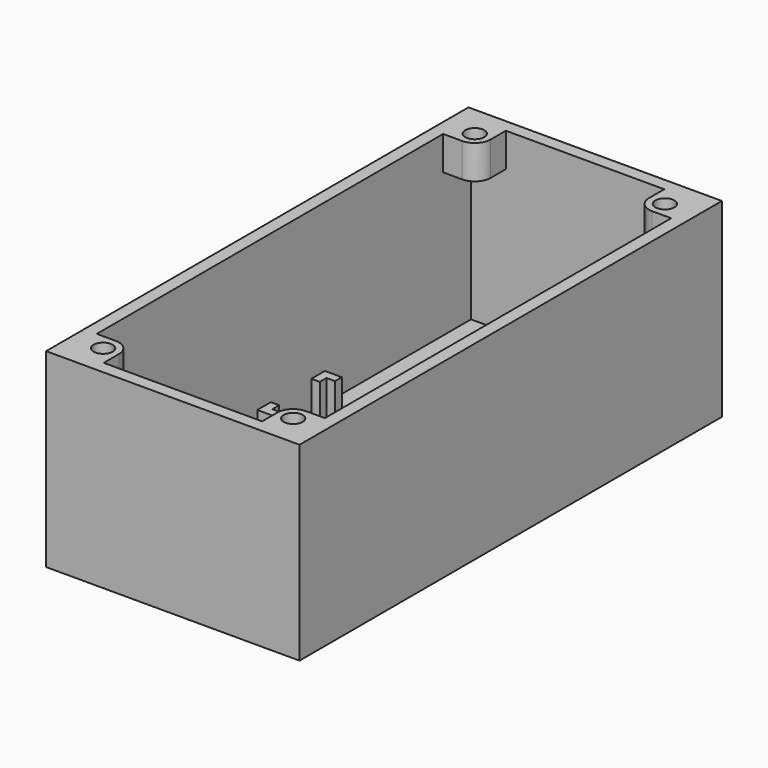
from build123d import *

# Parameters (mm, degrees)
SKETCH_W        = 60
SKETCH_H        = 125
PAD_DEPTH       = 45
SKETCH001_W     = 54
SKETCH001_H     = 119
POCKET_DEPTH    = 42
PAD001_DEPTH    = 8
SKETCH003_R     = 2.25
POCKET001_DEPTH = 7
PAD002_DEPTH    = 11


with BuildPart() as part:
    # Sketch → Pad (new body)
    with BuildSketch(Plane.XY):
        Rectangle(SKETCH_W, SKETCH_H)
    extrude(amount=PAD_DEPTH)

    # Sketch001 (on Face6 of Pad) → Pocket (cut)
    with BuildSketch(Plane.XY.offset(45)):
        Rectangle(SKETCH001_W, SKETCH001_H)
    extrude(amount=-POCKET_DEPTH, mode=Mode.SUBTRACT)

    # Sketch002 (on Face5 of Pocket) → Pad001 (join)
    with BuildSketch(Plane.XY.offset(45)):
        with BuildLine():
            ThreePointArc((22.5, -51.25), (19.84835, -52.34835), (18.75, -55))
            Line((18.75, -60.445518), (18.75, -55))
            Line((18.75, -60.445518), (27, -59.5))
            Line((27.750854, -51.25), (27, -59.5))
            Line((27.750854, -51.25), (22.5, -51.25))
        make_face()
        with BuildLine():
            Line((-18.75, -60.445518), (-27, -59.5))
            Line((-27.750854, -51.25), (-27, -59.5))
            Line((-27.750854, -51.25), (-22.5, -51.25))
            ThreePointArc((-18.75, -55), (-19.84835, -52.34835), (-22.5, -51.25))
            Line((-18.75, -60.445518), (-18.75, -55))
        make_face()
        with BuildLine():
            Line((-18.75, 60.445518), (-27, 59.5))
            Line((-27.750854, 51.25), (-27, 59.5))
            Line((-27.750854, 51.25), (-22.5, 51.25))
            ThreePointArc((-22.5, 51.25), (-19.84835, 52.34835), (-18.75, 55))
            Line((-18.75, 60.445518), (-18.75, 55))
        make_face()
        with BuildLine():
            Line((18.75, 60.445518), (18.75, 55))
            ThreePointArc((18.75, 55), (19.84835, 52.34835), (22.5, 51.25))
            Line((27.750854, 51.25), (22.5, 51.25))
            Line((27.750854, 51.25), (27, 59.5))
            Line((18.75, 60.445518), (27, 59.5))
        make_face()
    extrude(amount=-PAD001_DEPTH)

    # Sketch003 (on Face6 of Pad001) → Pocket001 (cut)
    with BuildSketch(Plane.XY.offset(45)):
        with Locations((22.5, 55)):
            Circle(SKETCH003_R)
        with Locations((-22.5, 55)):
            Circle(SKETCH003_R)
        with Locations((22.5, -55)):
            Circle(SKETCH003_R)
        with Locations((-22.5, -55)):
            Circle(SKETCH003_R)
    extrude(amount=-POCKET001_DEPTH, mode=Mode.SUBTRACT)

    # Sketch004 (on Face32 of Pocket001) → Pad002 (join)
    with BuildSketch(Plane.XY.offset(3)):
        Polygon((-18, 8), (-18, 10), (-22, 10), (-22, 6), (-20, 6), (-20, 8), align=None)
        Polygon((-18, -8), (-18, -10), (-22, -10), (-22, -6), (-20, -6), (-20, -8), align=None)
        Polygon((22, 8), (22, 10), (26, 10), (26, 6), (24, 6), (24, 8), align=None)
        Polygon((22, -8), (22, -10), (26, -10), (26, -6), (24, -6), (24, -8), align=None)
    extrude(amount=PAD002_DEPTH)


solid = part.part
